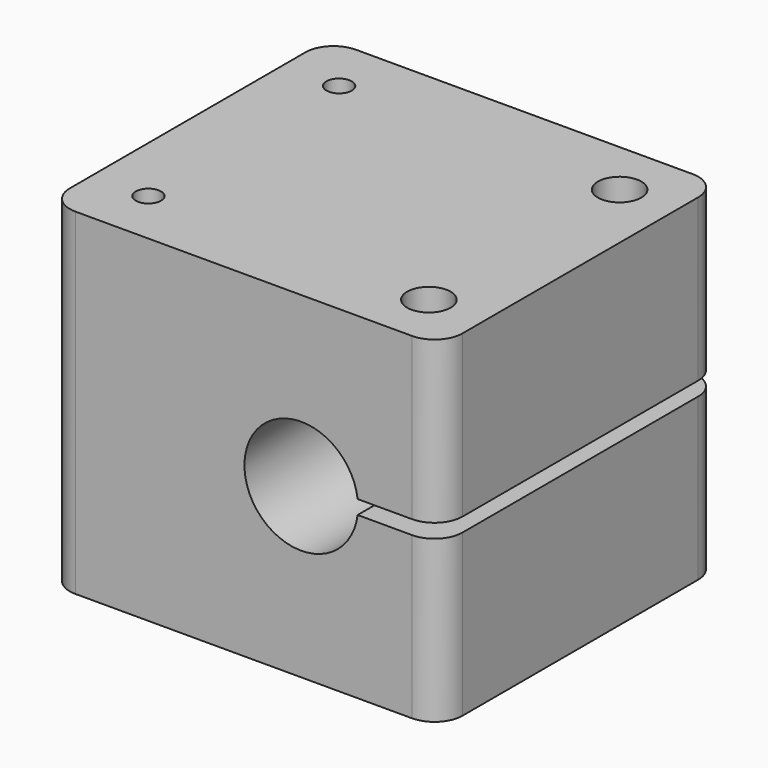
from build123d import *

# Parameters (mm, degrees)
F1_DEPTH = 25
F2_R     = 0.9
F3_DEPTH = 10
F2_R_2   = 1.55
F4_DEPTH = 24.001
F5_R     = 2


with BuildPart() as f1:
    # F0 (on Front) → F1 (new body)
    with BuildSketch(Plane.XZ):
        with BuildLine():
            Line((-14, -12), (14, -12))
            Line((14, -12), (14, -0.5))
            Line((14, -0.5), (8.119017, -0.5))
            ThreePointArc((8.119017, -0.5), (0.05, 0), (8.119017, 0.5))
            Line((8.119017, 0.5), (14, 0.5))
            Line((14, 0.5), (14, 12))
            Line((14, 12), (-14, 12))
            Line((-14, 12), (-14, -12))
        make_face()
    extrude(amount=F1_DEPTH)

    # F2 (on face) → F3 (cut)
    with BuildSketch(Plane.XY.offset(12)):
        with Locations((-10, -4)):
            Circle(F2_R)
        with Locations((-10, -21)):
            Circle(F2_R)
    extrude(amount=-F3_DEPTH, mode=Mode.SUBTRACT)

    # F2 (on face) → F4 (cut, through all)
    with BuildSketch(Plane.XY.offset(12)):
        with Locations((10, -21)):
            Circle(F2_R_2)
        with Locations((10, -4)):
            Circle(F2_R_2)
    extrude(amount=-F4_DEPTH, mode=Mode.SUBTRACT)

    # F5
    f5_edges = [f1.edges().sort_by_distance(p)[0] for p in [
        (-14, 0, 0),
        (14, -25, -6.25),
        (14, -25, 6.25),
        (14, 0, 6.25),
        (14, 0, -6.25),
        (-14, -25, 0),
    ]]
    fillet(f5_edges, radius=F5_R)


solid = f1.part
